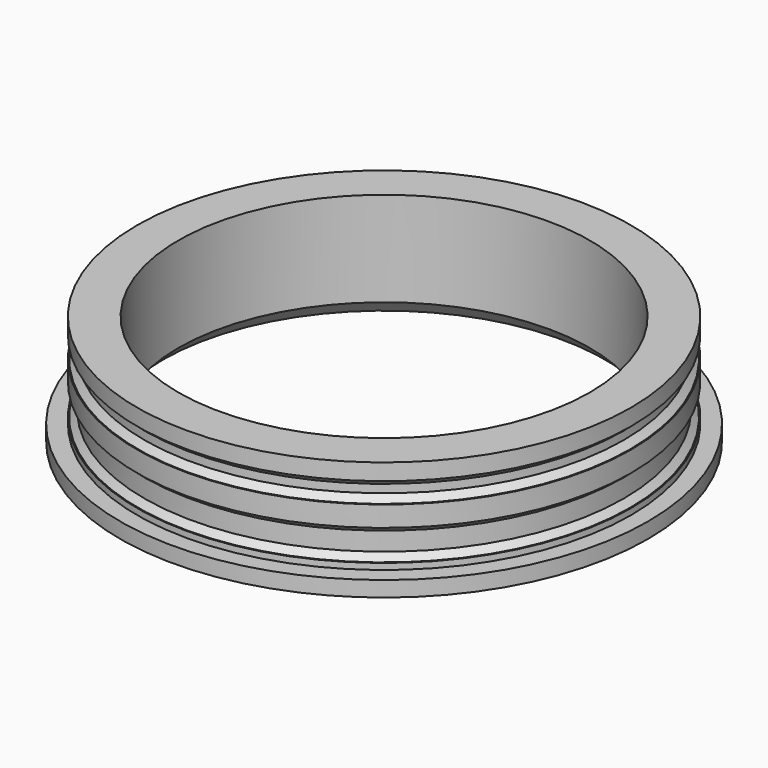
from build123d import *

# Parameters (mm, degrees)
CYLINDER039_R     = 68.3
CYLINDER039_DEPTH = 5
CYLINDER036_R     = 40
CYLINDER036_DEPTH = 27.4
CYLINDER035_R     = 45
CYLINDER035_DEPTH = 23.4
CYLINDER033_R     = 45
CYLINDER033_DEPTH = 25
CYLINDER032_R     = 48
CYLINDER032_DEPTH = 3.2
CYLINDER029_R     = 46.6
CYLINDER029_DEPTH = 6
CYLINDER038_R     = 46.6
CYLINDER038_DEPTH = 4
CYLINDER030_R     = 48
CYLINDER030_DEPTH = 4
CYLINDER037_R     = 48
CYLINDER037_DEPTH = 1.2
CYLINDER031_R     = 45
CYLINDER031_DEPTH = 25
CYLINDER034_R     = 51.3
CYLINDER034_DEPTH = 5
CHAMFER003_SIZE   = 1.2
CHAMFER002_SIZE   = 1.2


with BuildPart() as obj1:
    # Cylinder039 → Cylinder039 (new body)
    with BuildSketch(Plane.XY.offset(-23.2)):
        Circle(CYLINDER039_R)
    extrude(amount=CYLINDER039_DEPTH)


with BuildPart() as cone002:
    # Cone002 → Cone002 (revolve)
    with BuildSketch(Plane(origin=(0, 0, -15.2), x_dir=(-1, 0, 0), z_dir=(0, -1, 0))):
        Polygon((0, 0), (40, 0), (45, 5), (0, 5), align=None)
    revolve(axis=Axis((0, 0, -15.2), (0, 0, -1)))


with BuildPart() as fusion010:
    # Cylinder036 → Cylinder036 (new body)
    with BuildSketch(Plane.XY.offset(-17)):
        Circle(CYLINDER036_R)
    extrude(amount=CYLINDER036_DEPTH)

    # Fusion010: union Cone002
    add(cone002.part)


with BuildPart() as cut015:
    # Cylinder035 → Cylinder035 (new body)
    with BuildSketch(Plane.XY.offset(-20.2)):
        Circle(CYLINDER035_R)
    extrude(amount=CYLINDER035_DEPTH)

    # Cut015: cut Fusion010
    add(fusion010.part, mode=Mode.SUBTRACT)


with BuildPart() as cylinder033:
    # Cylinder033 → Cylinder033 (new body)
    with BuildSketch(Plane.XY.offset(-18)):
        Circle(CYLINDER033_R)
    extrude(amount=CYLINDER033_DEPTH)


with BuildPart() as cylinder032:
    # Cylinder032 → Cylinder032 (new body)
    with BuildSketch(Plane.XY):
        Circle(CYLINDER032_R)
    extrude(amount=CYLINDER032_DEPTH)


with BuildPart() as cylinder029:
    # Cylinder029 → Cylinder029 (new body)
    with BuildSketch(Plane.XY.offset(-14)):
        Circle(CYLINDER029_R)
    extrude(amount=CYLINDER029_DEPTH)


with BuildPart() as cylinder038:
    # Cylinder038 → Cylinder038 (new body)
    with BuildSketch(Plane.XY.offset(-4)):
        Circle(CYLINDER038_R)
    extrude(amount=CYLINDER038_DEPTH)


with BuildPart() as cylinder030:
    # Cylinder030 → Cylinder030 (new body)
    with BuildSketch(Plane.XY.offset(-8)):
        Circle(CYLINDER030_R)
    extrude(amount=CYLINDER030_DEPTH)


with BuildPart() as cut016:
    # Cylinder037 → Cylinder037 (new body)
    with BuildSketch(Plane.XY.offset(-15.2)):
        Circle(CYLINDER037_R)
    extrude(amount=CYLINDER037_DEPTH)

    # Fusion012: union Cylinder032, Cylinder029, Cylinder038, Cylinder030
    add(cylinder032.part)
    add(cylinder029.part)
    add(cylinder038.part)
    add(cylinder030.part)

    # Cut016: cut Cylinder033
    add(cylinder033.part, mode=Mode.SUBTRACT)


with BuildPart() as cylinder031:
    # Cylinder031 → Cylinder031 (new body)
    with BuildSketch(Plane.XY.offset(-23)):
        Circle(CYLINDER031_R)
    extrude(amount=CYLINDER031_DEPTH)


with BuildPart() as cut014:
    # Cylinder034 → Cylinder034 (new body)
    with BuildSketch(Plane.XY.offset(-20.2)):
        Circle(CYLINDER034_R)
    extrude(amount=CYLINDER034_DEPTH)

    # Cut017: cut Cylinder031
    add(cylinder031.part, mode=Mode.SUBTRACT)

    # Fusion009: union Cut016
    add(cut016.part)

    # Fusion011: union Cut015
    add(cut015.part)

    # Chamfer003
    chamfer003_edges = [cut014.edges().sort_by_distance(p)[0] for p in [
        (-46.6, 0, -14),
        (-46.6, 0, -4),
    ]]
    chamfer(chamfer003_edges, length=CHAMFER003_SIZE)

    # Chamfer002
    chamfer002_edges = [cut014.edges().sort_by_distance(p)[0] for p in [
        (-46.6, 0, -8),
        (-46.6, 0, 0),
    ]]
    chamfer(chamfer002_edges, length=CHAMFER002_SIZE)

    # Cut014: cut obj1
    add(obj1.part, mode=Mode.SUBTRACT)


solid = cut014.part
